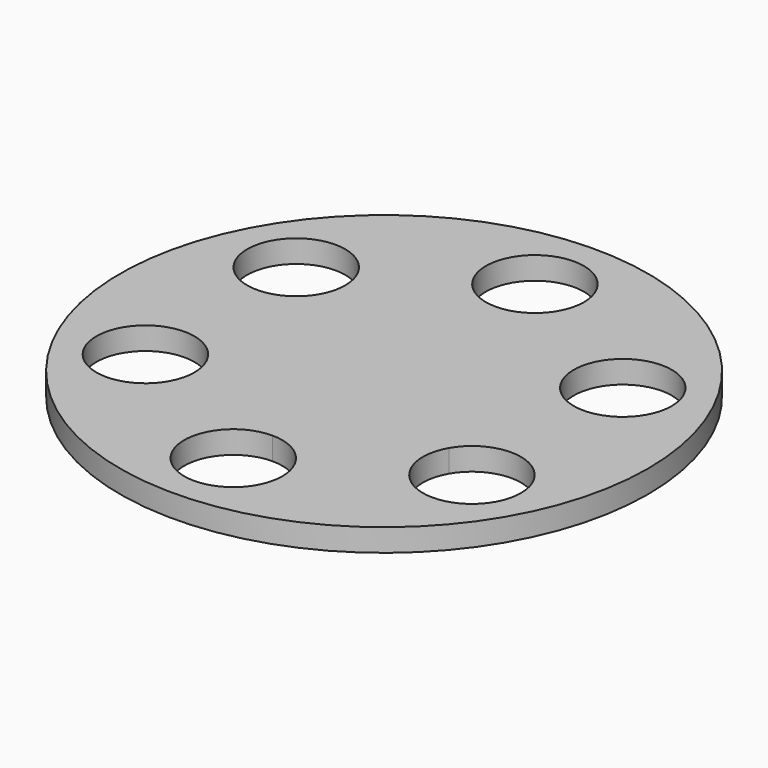
from build123d import *

# Parameters (mm, degrees)
F0_R     = 35
F1_DEPTH = 3


with BuildPart() as f1:
    # F0 (on Top) → F1 (new body)
    with BuildSketch(Plane.XY):
        with Locations((0.414786, -0.086681)):
            Circle(F0_R)
        with BuildLine():
            ThreePointArc((-14.735849, -12.586681), (-27.514367, -14.269004), (-15.606684, -9.336681))
            ThreePointArc((-15.606684, -9.336681), (-14.957331, -10.904357), (-14.735849, -12.586681))
        make_face(mode=Mode.SUBTRACT)
        with BuildLine():
            ThreePointArc((6.914786, -25.086681), (-4.181408, -29.682875), (0.414786, -18.586681))
            ThreePointArc((0.414786, -18.586681), (5.01098, -20.490487), (6.914786, -25.086681))
        make_face(mode=Mode.SUBTRACT)
        with BuildLine():
            ThreePointArc((28.565421, -12.586681), (20.383097, -18.865199), (16.436256, -9.336681))
            ThreePointArc((16.436256, -9.336681), (23.747745, -6.308163), (28.565421, -12.586681))
        make_face(mode=Mode.SUBTRACT)
        with BuildLine():
            ThreePointArc((-14.735849, 12.413319), (-14.957331, 10.730996), (-15.606684, 9.163319))
            ThreePointArc((-15.606684, 9.163319), (-27.514367, 14.095643), (-14.735849, 12.413319))
        make_face(mode=Mode.SUBTRACT)
        with BuildLine():
            ThreePointArc((28.565421, 12.413319), (23.747745, 6.134801), (16.436256, 9.163319))
            ThreePointArc((16.436256, 9.163319), (20.383097, 18.691837), (28.565421, 12.413319))
        make_face(mode=Mode.SUBTRACT)
        with BuildLine():
            ThreePointArc((6.914786, 24.913319), (5.01098, 20.317125), (0.414786, 18.413319))
            ThreePointArc((0.414786, 18.413319), (-4.181408, 29.509513), (6.914786, 24.913319))
        make_face(mode=Mode.SUBTRACT)
    extrude(amount=F1_DEPTH)


solid = f1.part
